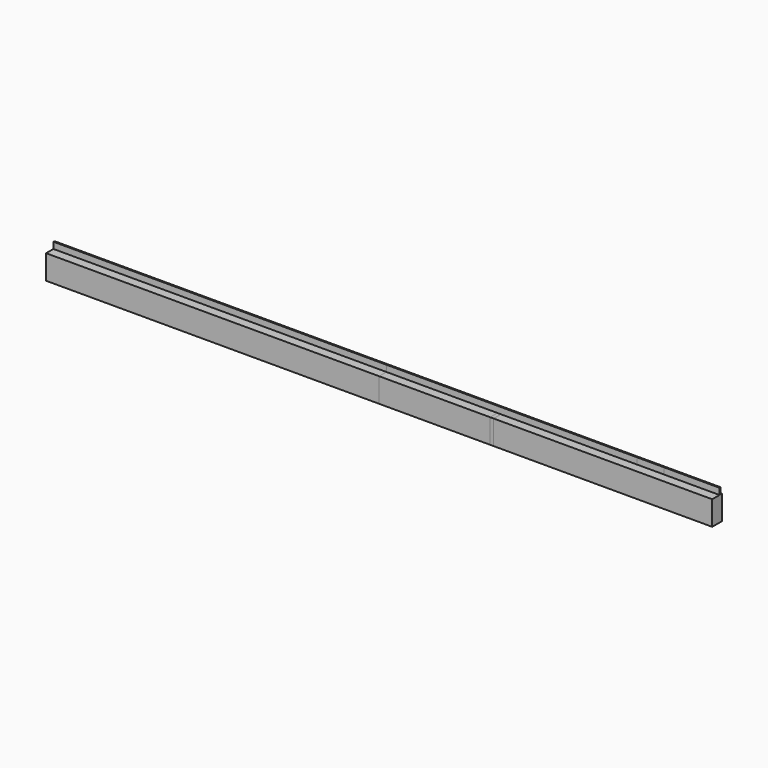
from build123d import *

# Parameters (mm, degrees)
F0_W     = 4.7625
F0_H     = 88.9
F1_DEPTH = 1219.2
F2_W     = 44.45
F2_H     = 88.9
F3_DEPTH = 1219.2
F4_DEPTH = 1219.2
F5_DEPTH = 1016
F6_DEPTH = 406.4
F7_DEPTH = 917.575
F8_DEPTH = 419.1
F9_DEPTH = 406.4


with BuildPart() as f1:
    # F0 (on Right) → F1 (new body, symmetric)
    with BuildSketch(Plane.YZ):
        with Locations((-7.032388, 34.232576)):
            Rectangle(F0_W, F0_H)
    extrude(amount=F1_DEPTH, both=True)


with BuildPart() as f3:
    # F2 (on Right) → F3 (new body, symmetric)
    with BuildSketch(Plane.YZ):
        with Locations((-20.791516, 11.035349)):
            Rectangle(F2_W, F2_H)
    extrude(amount=F3_DEPTH, both=True)


with BuildPart() as f4:
    # F2 (on Right) → F4 (new body)
    with BuildSketch(Plane.YZ):
        with Locations((-20.791516, 11.035349)):
            Rectangle(F2_W, F2_H)
    extrude(amount=F4_DEPTH)


with BuildPart() as f5:
    # F0 (on Right) → F5 (new body)
    with BuildSketch(Plane.YZ):
        with Locations((-7.032388, 34.232576)):
            Rectangle(F0_W, F0_H)
    extrude(amount=F5_DEPTH)


with BuildPart() as f6:
    # F0 (on Right) → F6 (new body)
    with BuildSketch(Plane.YZ):
        with Locations((-7.032388, 34.232576)):
            Rectangle(F0_W, F0_H)
    extrude(amount=F6_DEPTH)


with BuildPart() as f7:
    # F0 (on Right) → F7 (new body)
    with BuildSketch(Plane.YZ):
        with Locations((-7.032388, 34.232576)):
            Rectangle(F0_W, F0_H)
    extrude(amount=F7_DEPTH)


with BuildPart() as f8:
    # F2 (on Right) → F8 (new body)
    with BuildSketch(Plane.YZ):
        with Locations((-20.791516, 11.035349)):
            Rectangle(F2_W, F2_H)
    extrude(amount=F8_DEPTH)


with BuildPart() as f9:
    # F2 (on Right) → F9 (new body)
    with BuildSketch(Plane.YZ):
        with Locations((-20.791516, 11.035349)):
            Rectangle(F2_W, F2_H)
    extrude(amount=F9_DEPTH)


solid = Compound([f1.part, f3.part, f4.part, f5.part, f6.part, f7.part, f8.part, f9.part])
